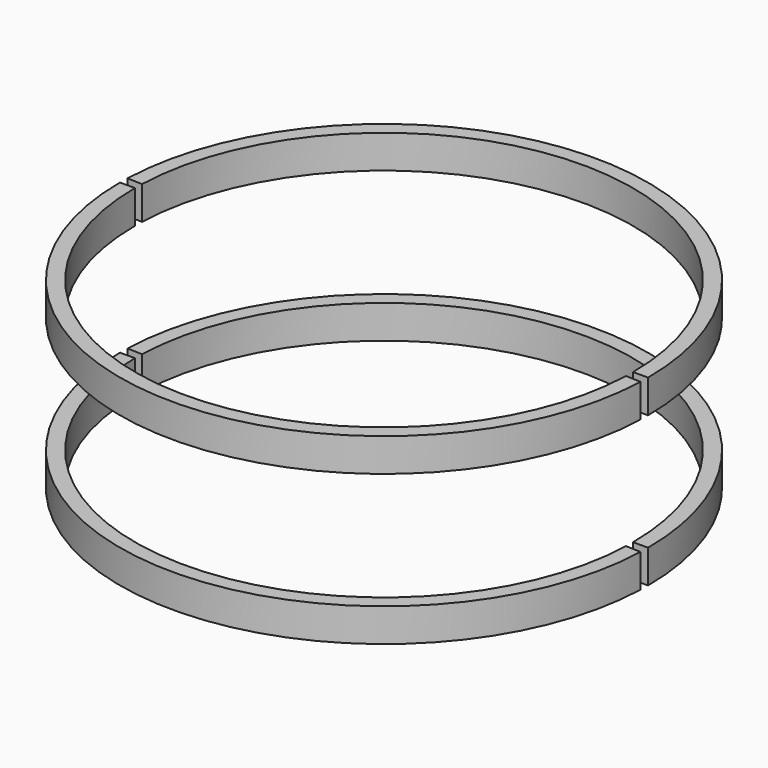
from build123d import *

# Parameters (mm, degrees)
CYLINDER081_R          = 22.45
CYLINDER081_DEPTH      = 17
CYLINDER080_W          = 23.8
CYLINDER080_H          = 3
CYLINDER080_ANGLE      = 178
CUT037_PLACEMENT_ANGLE = 180
CYLINDER079_R          = 22.45
CYLINDER079_DEPTH      = 17
CYLINDER078_W          = 23.8
CYLINDER078_H          = 3
CYLINDER078_ANGLE      = 178
CUT036_PLACEMENT_ANGLE = 180


with BuildPart() as cylinder081:
    # Cylinder081 → Cylinder081 (new body)
    with BuildSketch(Plane.XY):
        Circle(CYLINDER081_R)
    extrude(amount=CYLINDER081_DEPTH)


with BuildPart() as cylinder080:
    # Cylinder080 → Cylinder080 (revolve)
    with BuildSketch(Plane(origin=(0, 0, 1.8), x_dir=(1, 0, 0), z_dir=(0, -1, 0))):
        with Locations((11.9, 1.5)):
            Rectangle(CYLINDER080_W, CYLINDER080_H)
    revolve(axis=Axis((0, 0, 1.8), (0, 0, 1)), revolution_arc=CYLINDER080_ANGLE)


with BuildPart() as cut037:
    # Cut037 base: copy of Cylinder080
    add(cylinder080.part)

    # Cut037: cut Cylinder081
    add(cylinder081.part, mode=Mode.SUBTRACT)


with BuildPart() as cut037_1:
    # Cut037 placement: moved
    add(cut037.part.rotate(Axis((0, 0, 0), (0, 0, 1)), CUT037_PLACEMENT_ANGLE))


with BuildPart() as cylinder079:
    # Cylinder079 → Cylinder079 (new body)
    with BuildSketch(Plane.XY):
        Circle(CYLINDER079_R)
    extrude(amount=CYLINDER079_DEPTH)


with BuildPart() as cylinder078:
    # Cylinder078 → Cylinder078 (revolve)
    with BuildSketch(Plane(origin=(0, 0, 1.8), x_dir=(1, 0, 0), z_dir=(0, -1, 0))):
        with Locations((11.9, 1.5)):
            Rectangle(CYLINDER078_W, CYLINDER078_H)
    revolve(axis=Axis((0, 0, 1.8), (0, 0, 1)), revolution_arc=CYLINDER078_ANGLE)


with BuildPart() as fusion078:
    # Cut038 base: copy of Cylinder078
    add(cylinder078.part)

    # Cut038: cut Cylinder079
    add(cylinder079.part, mode=Mode.SUBTRACT)

    # Fusion078: union Cut037
    add(cut037_1.part)


with BuildPart() as cut036:
    # Cut036 base: copy of Cylinder080
    add(cylinder080.part)

    # Cut036: cut Cylinder081
    add(cylinder081.part, mode=Mode.SUBTRACT)


with BuildPart() as cut036_1:
    # Cut036 placement: moved
    add(cut036.part.rotate(Axis((0, 0, 0), (0, 0, 1)), CUT036_PLACEMENT_ANGLE))


with BuildPart() as rim_outer_rear_support:
    # Cut035 base: copy of Cylinder078
    add(cylinder078.part)

    # Cut035: cut Cylinder079
    add(cylinder079.part, mode=Mode.SUBTRACT)

    # Fusion079: union Cut036
    add(cut036_1.part)


with BuildPart() as rim_outer_rear_support_1:
    # Fusion079 placement: moved
    add(rim_outer_rear_support.part.moved(Location((0, 0, 13.5))))

    # Fusion077: union Fusion078
    add(fusion078.part)


with BuildPart() as rim_outer_rear_support_2:
    # Fusion077 placement: moved
    add(rim_outer_rear_support_1.part.moved(Location((0, 0, -20))))


solid = rim_outer_rear_support_2.part
